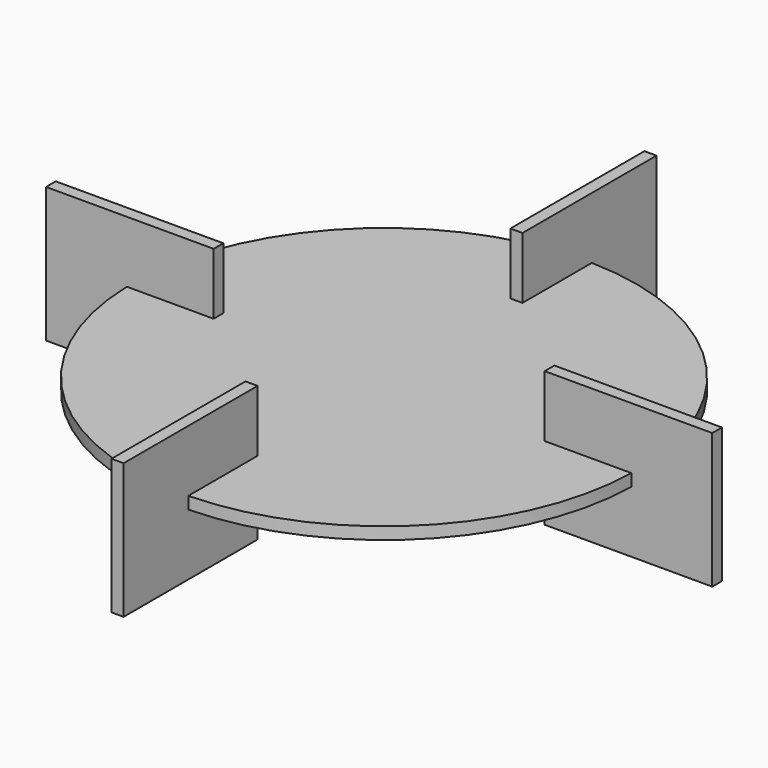
from build123d import *

# Parameters (mm, degrees)
F0_R          = 125
F1_DEPTH      = 6
F3_W          = 83
F3_H          = 6
F3_W_2        = 6
F3_H_2        = 83
F4_DEPTH      = 33.5
F4_DEPTH_BACK = 33.5


with BuildPart() as f1:
    # F0 (on Top) → F1 (new body)
    with BuildSketch(Plane.XY):
        Circle(F0_R)
    extrude(amount=F1_DEPTH)

    # F3 (on mid) → F4 (join, two sides)
    with BuildSketch(Plane.XY.offset(3)) as f4_sk:
        with Locations((-123.5, 0)):
            Rectangle(F3_W, F3_H)
        with Locations((0, 123.5)):
            Rectangle(F3_W_2, F3_H_2)
        with Locations((123.5, 0)):
            Rectangle(F3_W, F3_H)
        with Locations((0, -123.5)):
            Rectangle(F3_W_2, F3_H_2)
    extrude(amount=F4_DEPTH)
    extrude(f4_sk.sketch, amount=-F4_DEPTH_BACK)


solid = f1.part
